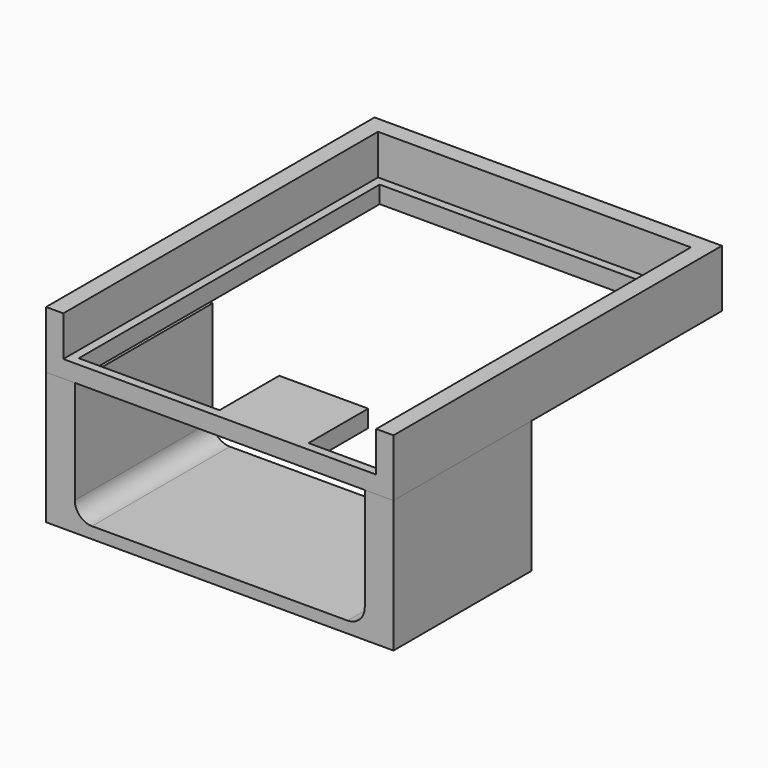
from build123d import *

# Parameters (mm, degrees)
F1_DEPTH  = 10
F2_W      = 51.5
F2_H      = 1.5
F3_DEPTH  = 3
F4_W      = 60.5
F4_H      = 30
F5_DEPTH  = 23
F7_W      = 50.5
F7_H      = 21
F8_DEPTH  = 38.4
F9_R      = 3
F6_W      = 15.5
F6_H      = 13
F10_DEPTH = 3


with BuildPart() as f1:
    # F0 (on Top) → F1 (new body)
    with BuildSketch(Plane.XY):
        Polygon((30.25, -35.75), (30.25, 35.75), (-30.25, 35.75), (-30.25, -35.75), (-27.25, -35.75), (-27.25, 32.75), (27.25, 32.75), (27.25, -35.75), align=None)
    extrude(amount=F1_DEPTH)

    # F2 (on Top) → F3 (join)
    with BuildSketch(Plane.XY):
        Polygon((-27.25, -35.75), (-25.75, -35.75), (-25.75, -34.25), (-25.75, 31.25), (25.75, 31.25), (25.75, -34.25), (25.75, -35.75), (27.25, -35.75), (27.25, 32.75), (-27.25, 32.75), align=None)
        with Locations((0, -35)):
            Rectangle(F2_W, F2_H)
    extrude(amount=F3_DEPTH)

    # F6 (on face) → F10 (join)
    with BuildSketch(Plane(origin=(0, 0, 0), x_dir=(1, 0, 0), z_dir=(0, 0, -1))):
        with Locations((6.5, 27.75)):
            Rectangle(F6_W, F6_H)
    extrude(amount=-F10_DEPTH)


with BuildPart() as f5:
    # F4 (on Top) → F5 (new body)
    with BuildSketch(Plane.XY):
        with Locations((0, -20.75)):
            Rectangle(F4_W, F4_H)
    extrude(amount=-F5_DEPTH)

    # F7 (on face) → F8 (cut)
    with BuildSketch(Plane.XZ.offset(35.75)):
        with Locations((0, -10.5)):
            Rectangle(F7_W, F7_H)
    extrude(amount=-F8_DEPTH, mode=Mode.SUBTRACT)

    # F9
    f9_edges = [f5.edges().sort_by_distance(p)[0] for p in [
        (-25.25, -20.75, -21),
        (25.25, -20.75, -21),
    ]]
    fillet(f9_edges, radius=F9_R)


solid = Compound([f1.part, f5.part])
